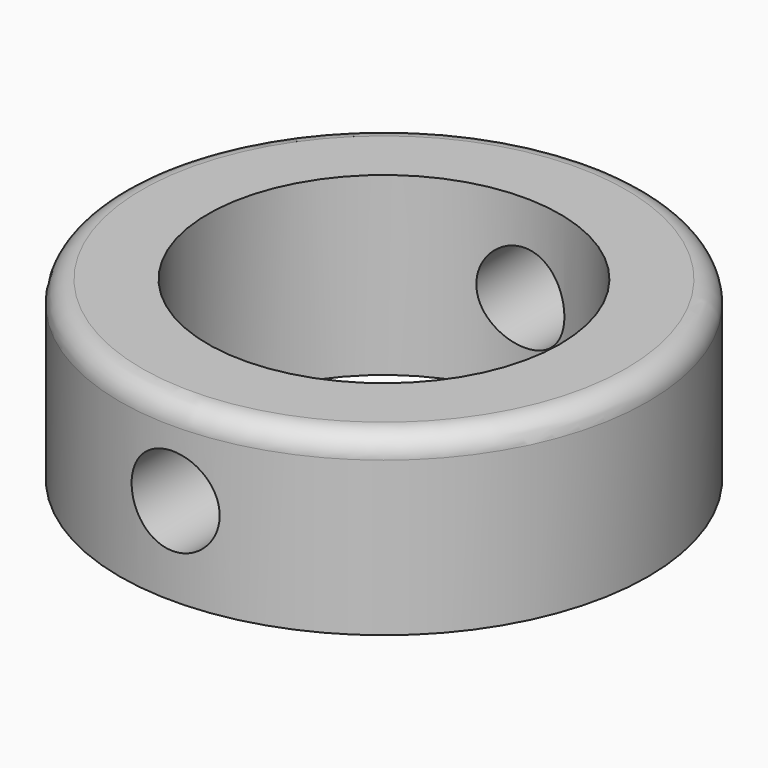
from build123d import *

# Parameters (mm, degrees)
F0_R     = 12
F0_R_2   = 8
F1_DEPTH = 4
F2_R     = 1
F3_R     = 2
F4_DEPTH = 12.5


with BuildPart() as f1:
    # F0 (on Top) → F1 (new body, symmetric)
    with BuildSketch(Plane.XY):
        Circle(F0_R)
        Circle(F0_R_2, mode=Mode.SUBTRACT)
    extrude(amount=F1_DEPTH, both=True)

    # F2
    f2_edges = [f1.edges().sort_by_distance(p)[0] for p in [
        (-12, 0, 4),
    ]]
    fillet(f2_edges, radius=F2_R)

    # F3 (on Front) → F4 (cut, symmetric)
    with BuildSketch(Plane.XZ):
        Circle(F3_R)
    extrude(amount=F4_DEPTH, both=True, mode=Mode.SUBTRACT)


solid = f1.part
